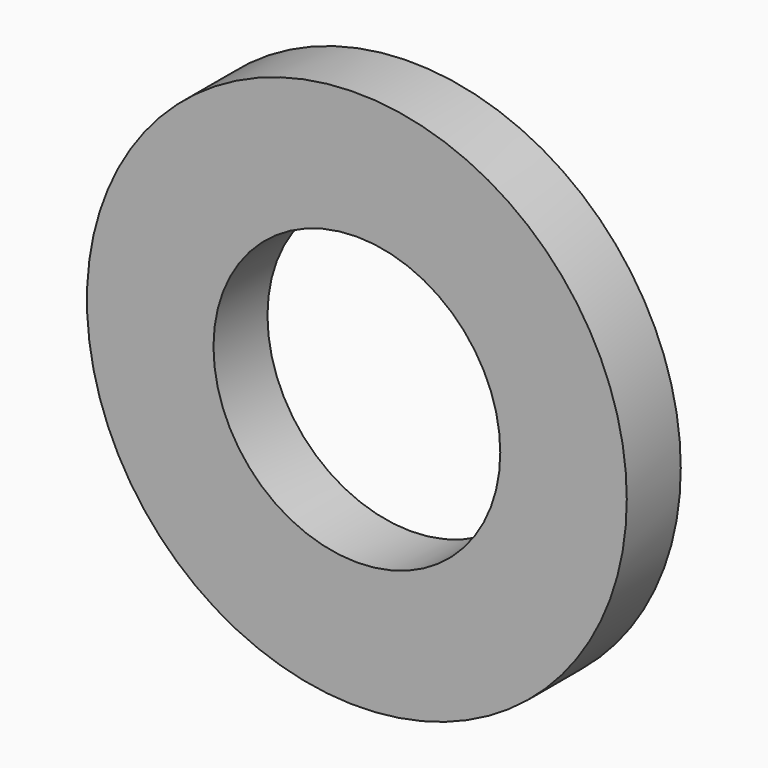
from build123d import *

# Parameters (mm, degrees)
SKETCH_R   = 8
SKETCH_R_2 = 4.25
PAD_DEPTH  = 2


with BuildPart() as part:
    # Sketch → Pad (new body)
    with BuildSketch(Plane.XZ):
        Circle(SKETCH_R)
        Circle(SKETCH_R_2, mode=Mode.SUBTRACT)
    extrude(amount=PAD_DEPTH)


solid = part.part
